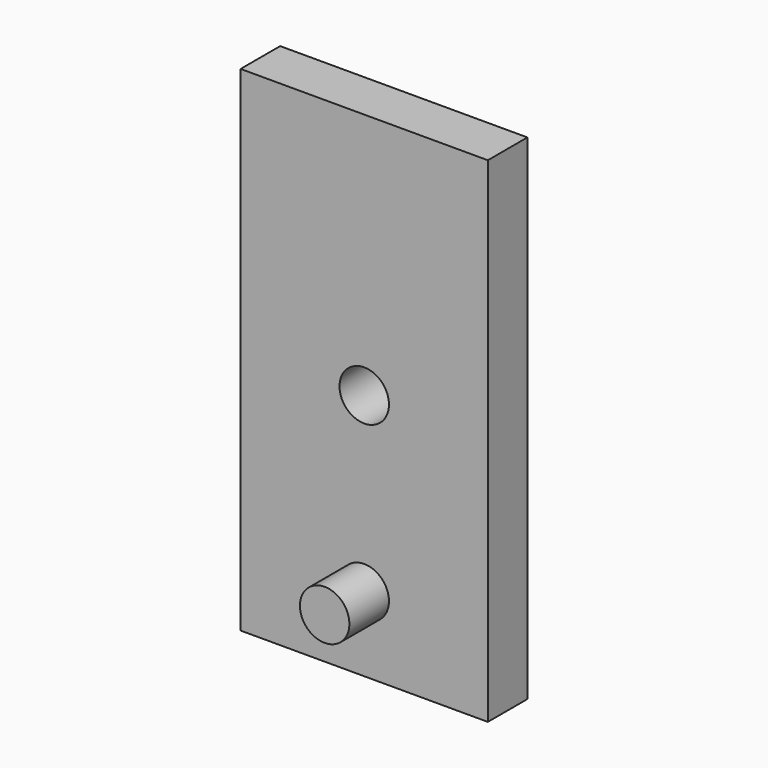
from build123d import *

# Parameters (mm, degrees)
F0_W     = 100
F0_H     = 200
F1_DEPTH = 20
F2_R     = 10
F3_DEPTH = 20.001
F4_R     = 10
F5_DEPTH = 20
F6_R     = 10
F7_DEPTH = 20


with BuildPart() as f1:
    # F0 (on Front) → F1 (new body)
    with BuildSketch(Plane.XZ):
        Rectangle(F0_W, F0_H)
    extrude(amount=F1_DEPTH)

    # F2 (on face) → F3 (cut, through all)
    with BuildSketch(Plane.XZ.offset(20)):
        Circle(F2_R)
    extrude(amount=-F3_DEPTH, mode=Mode.SUBTRACT)

    # F4 (on face) → F5 (join)
    with BuildSketch(Plane.XZ.offset(20)):
        with Locations((0, -70)):
            Circle(F4_R)
    extrude(amount=F5_DEPTH)

    # F6 (on face) → F7 (join)
    with BuildSketch(Plane(origin=(0, 0, 0), x_dir=(-1, 0, 0), z_dir=(0, 1, 0))):
        with Locations((0, 70)):
            Circle(F6_R)
    extrude(amount=F7_DEPTH)


solid = f1.part
